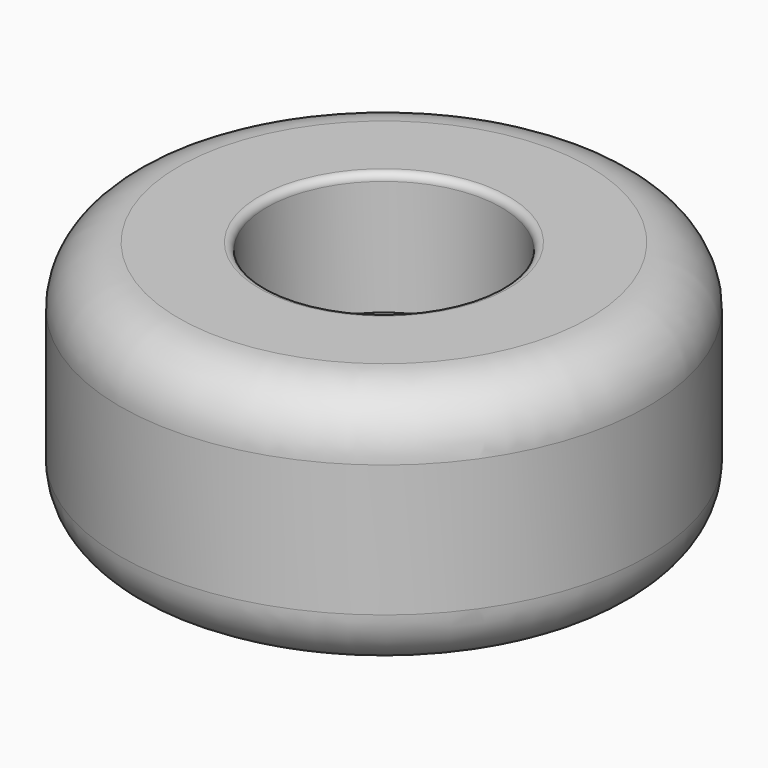
from build123d import *

# Parameters (mm, degrees)
F2_R     = 14.2875
F3_DEPTH = 25.4


with BuildPart() as f1:
    # F0 (on Right) → F1 (revolve)
    with BuildSketch(Plane.YZ):
        with BuildLine():
            Line((101.6, 107.95), (101.6, 106.3625))
            Line((101.6, 106.3625), (101.6, 6.35))
            ThreePointArc((101.6, 6.35), (103.459872, 1.859872), (107.95, 0))
            Line((107.95, 0), (177.8, 0))
            ThreePointArc((177.8, 0), (213.721024, 14.878976), (228.6, 50.8))
            Line((228.6, 50.8), (228.6, 165.1))
            ThreePointArc((228.6, 165.1), (213.721024, 201.021024), (177.8, 215.9))
            Line((177.8, 215.9), (107.95, 215.9))
            ThreePointArc((107.95, 215.9), (103.459872, 214.040128), (101.6, 209.55))
            Line((101.6, 209.55), (101.6, 109.5375))
            Line((101.6, 109.5375), (101.6, 107.95))
        make_face()
        Polygon((0, 107.95), (0, 106.3625), (101.6, 106.3625), (101.6, 107.95), (50.8, 107.95), align=None)
        Polygon((0, 109.5375), (0, 107.95), (50.8, 107.95), (101.6, 107.95), (101.6, 109.5375), align=None)
    revolve(axis=Axis((0, 0, 107.95), (0, 0, -1)))

    # F2 (on face) → F3 (cut)
    with BuildSketch(Plane(origin=(0, 0, 106.3625), x_dir=(1, 0, 0), z_dir=(0, 0, -1))):
        Circle(F2_R)
    extrude(amount=-F3_DEPTH, mode=Mode.SUBTRACT)


solid = f1.part
